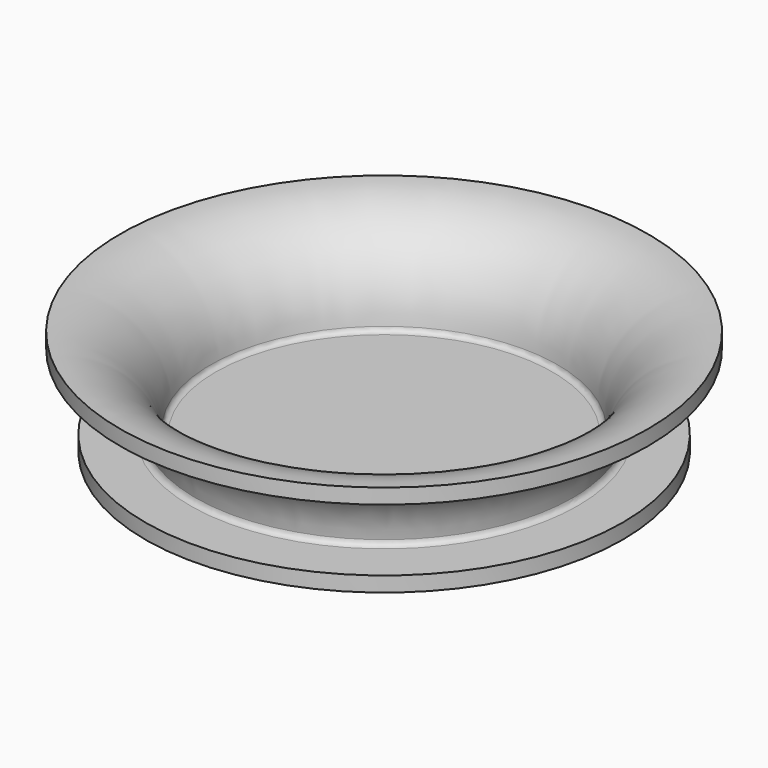
from build123d import *

# Parameters (mm, degrees)
F2_R = 1


with BuildPart() as f1:
    # F0 (on Front) → F1 (revolve)
    with BuildSketch(Plane.XZ):
        Polygon((0, 3), (0, 0), (47.5, 0), (47.5, 3), (37.5, 3), (34.5, 3), align=None)
        with BuildLine():
            ThreePointArc((52.5, 21), (39.772078, 15.727922), (34.5, 3))
            Line((34.5, 3), (37.5, 3))
            ThreePointArc((37.5, 3), (41.893398, 13.606602), (52.5, 18))
            Line((52.5, 18), (52.5, 21))
        make_face()
    revolve(axis=Axis((0, 0, -4.768059), (0, 0, -1)))

    # F2
    f2_edges = [f1.edges().sort_by_distance(p)[0] for p in [
        (-34.5, 0, 3),
        (-37.5, 0, 3),
    ]]
    fillet(f2_edges, radius=F2_R)


solid = f1.part
